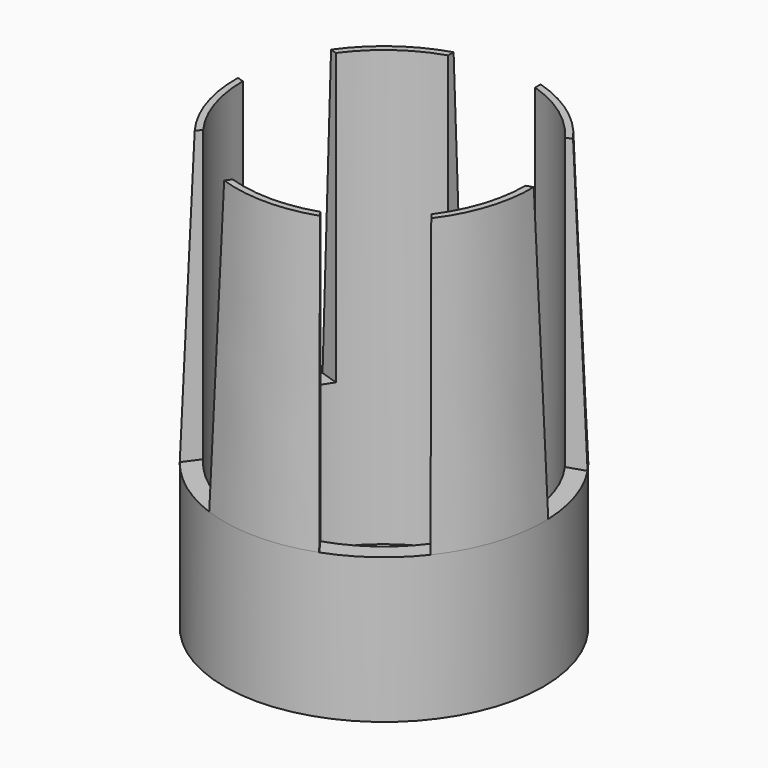
from build123d import *

# Parameters (mm, degrees)
SKETCH011_W           = 6
SKETCH011_H           = 30
POCKET001_DEPTH       = 97.441731
POLARPATTERN001_COUNT = 5


with BuildPart() as part:
    # Sketch010 → Revolution003 (revolve)
    with BuildSketch(Plane.XZ):
        Polygon((-9.75, -10), (-9.75, 20), (-10.2, 20), (-11, 0), (-11, -10), align=None)
    revolve(axis=Axis((0, 0, 0), (0, 0, 1)))

    # Sketch011 → Pocket001 (cut, through all)
    with BuildSketch(Plane.XZ):
        with Locations((0, 15)):
            Rectangle(SKETCH011_W, SKETCH011_H)
    pocket001 = extrude(amount=-POCKET001_DEPTH, mode=Mode.SUBTRACT)

    # PolarPattern001: Pocket001 ×5 about axis
    polarpattern001_axis = Axis((0, 0, 0), (0, 0, 1))
    for i in range(1, POLARPATTERN001_COUNT):
        add(pocket001.rotate(polarpattern001_axis, i * 360 / POLARPATTERN001_COUNT), mode=Mode.SUBTRACT)


solid = part.part
